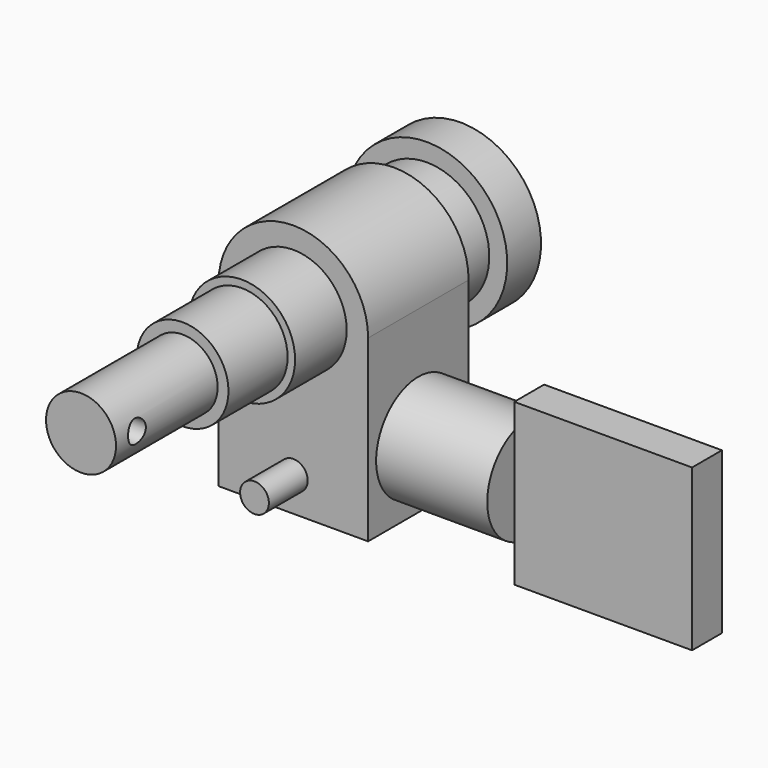
from build123d import *

# Parameters (mm, degrees)
F1_DEPTH      = 11.3
F2_R          = 4.8
F3_DEPTH      = 5.8
F4_R          = 4.125
F5_DEPTH      = 12.45
F6_R          = 3.15
F7_DEPTH      = 23.88
F8_R          = 1
F9_DEPTH      = 6.731
F9_DEPTH_BACK = 6.731
F10_R         = 5.635
F11_DEPTH     = 3.7
F12_R         = 7.25
F12_R_2       = 5.635
F13_DEPTH     = 3.8
F14_R         = 4.75
F15_DEPTH     = 10
F16_W         = 3.3575966954
F16_H         = 14.4844972529
F17_DEPTH     = 16
F18_R         = 1.295
F19_DEPTH     = 4.37


with BuildPart() as f1:
    # F0 (on Front) → F1 (new body)
    with BuildSketch(Plane.XZ):
        with BuildLine():
            ThreePointArc((6.73, 11.5308485135), (0, 18.2608485135), (-6.73, 11.5308485135))
            Line((-6.73, 11.5308485135), (-6.73, -4.5823248016))
            Line((-6.73, -4.5823248016), (6.73, -4.5823248016))
            Line((6.73, -4.5823248016), (6.73, 11.5308485135))
        make_face()
    extrude(amount=-F1_DEPTH)

    # F2 (on face) → F3 (join)
    with BuildSketch(Plane.XZ):
        with Locations((0, 11.5308485135)):
            Circle(F2_R)
    extrude(amount=F3_DEPTH)

    # F4 (on face) → F5 (join)
    with BuildSketch(Plane.XZ):
        with Locations((0, 11.5308485135)):
            Circle(F4_R)
    extrude(amount=F5_DEPTH)

    # F6 (on face) → F7 (join)
    with BuildSketch(Plane.XZ):
        with Locations((0, 11.5308485135)):
            Circle(F6_R)
    extrude(amount=F7_DEPTH)

    # F8 (on Right) → F9 (cut, two sides)
    with BuildSketch(Plane.YZ) as f9_sk:
        with Locations((-21.5193368495, 11.6681437939)):
            Circle(F8_R)
    extrude(amount=-F9_DEPTH, mode=Mode.SUBTRACT)
    extrude(f9_sk.sketch, amount=F9_DEPTH_BACK, mode=Mode.SUBTRACT)

    # F10 (on face) → F11 (join)
    with BuildSketch(Plane(origin=(0, 11.3, 0), x_dir=(-1, 0, 0), z_dir=(0, 1, 0))):
        with Locations((0, 11.5308485135)):
            Circle(F10_R)
    extrude(amount=F11_DEPTH)

    # F12 (on face) → F13 (join)
    with BuildSketch(Plane(origin=(0, 15, 0), x_dir=(-1, 0, 0), z_dir=(0, 1, 0))):
        with Locations((0, 11.5308485135)):
            Circle(F12_R)
        with Locations((0, 11.5308485135)):
            Circle(F12_R_2, mode=Mode.SUBTRACT)
        with Locations((0, 11.5308485135)):
            Circle(F12_R_2)
    extrude(amount=F13_DEPTH)

    # F14 (on face) → F15 (join)
    with BuildSketch(Plane.YZ.offset(6.73)):
        with Locations((5.65, 1.4176751984)):
            Circle(F14_R)
    extrude(amount=F15_DEPTH)

    # F16 (on face) → F17 (join)
    with BuildSketch(Plane.YZ.offset(16.73)):
        with Locations((5.616213195, 0.8844293188)):
            Rectangle(F16_W, F16_H)
    extrude(amount=F17_DEPTH)

    # F18 (on face) → F19 (join)
    with BuildSketch(Plane.XZ):
        with Locations((0, -1.5323248016)):
            Circle(F18_R)
    extrude(amount=F19_DEPTH)


solid = f1.part
